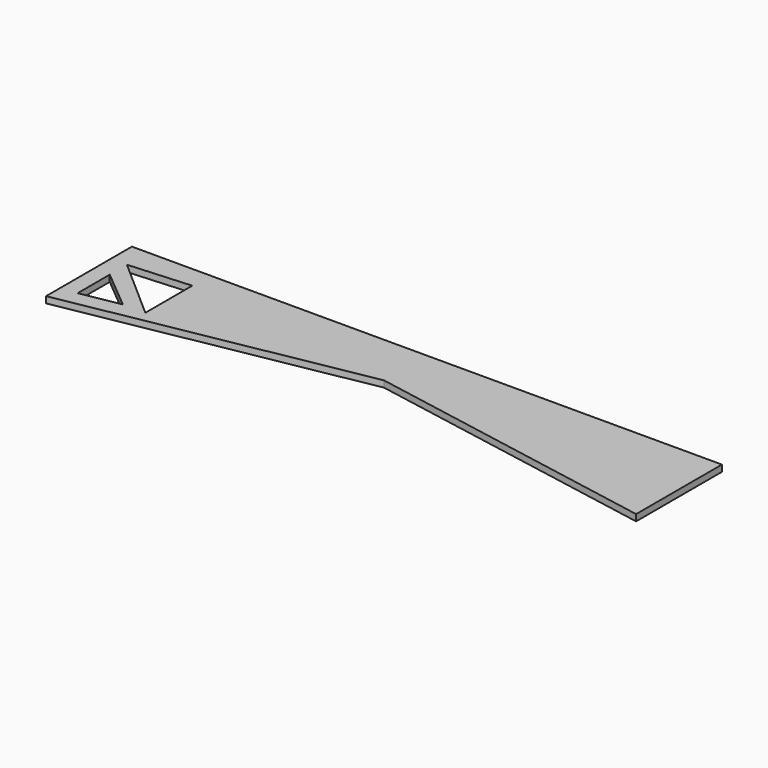
from build123d import *

# Parameters (mm, degrees)
F1_DEPTH = 6
F3_DEPTH = 25


with BuildPart() as f1:
    # F0 (on Top) → F1 (new body)
    with BuildSketch(Plane.XY):
        Polygon((275, -50), (275, 50), (-275, 50), (-275, -50), (0, 0), align=None)
    extrude(amount=F1_DEPTH)

    # F2 (on face) → F3 (cut)
    with BuildSketch(Plane.XY.offset(6)):
        Polygon((-223.195529, -25.335087), (-260, 5.431539), (-260, -32.026809), align=None)
        Polygon((-202.192262, 29.317927), (-260, 25.445178), (-202.192262, -25.335087), align=None)
    extrude(amount=-F3_DEPTH, mode=Mode.SUBTRACT)


solid = f1.part
